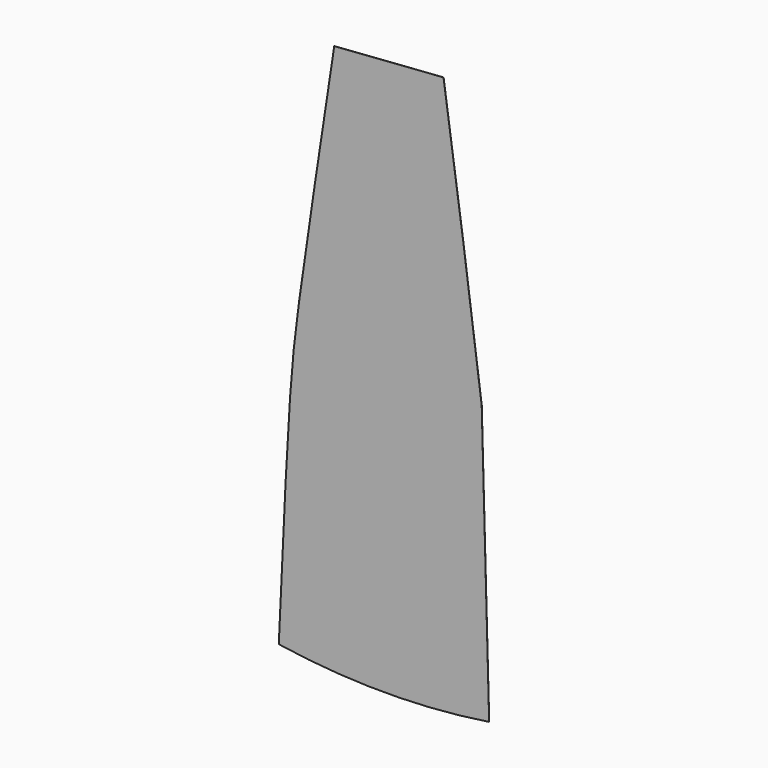
from build123d import *

# Parameters (mm, degrees)
F3_DEPTH = 1


with BuildPart() as f3:
    # F2 (on face) → F3 (new body)
    with BuildSketch(Plane.XZ):
        with BuildLine():
            add(Edge.make_bspline(
                [(0, 0), (42.7046461039, 949.5739841818), (112.432369512, 2500.0289853407), (224.0139745837, 3496.2047652429), (468.8398802864, 5098.1421986098), (620.1964285714, 6088.4937702183)],
                knots=[0, 0, 0, 0, 0.3762966151, 0.6144133881, 1, 1, 1, 1], degree=3))
            ThreePointArc((0, 0), (1176, -90), (2352, 0))
            Line((2352, 0), (2268.5914598735, 3088.9315220325))
            Line((2268.5914598735, 3088.9315220325), (2062.376746933, 4633.3972830488))
            Line((2062.376746933, 4633.3972830488), (1841.9321335797, 6177.863044065))
            Line((1841.9321335797, 6177.863044065), (620.1964285714, 6088.4937702183))
        make_face()
    extrude(amount=F3_DEPTH)


solid = f3.part
